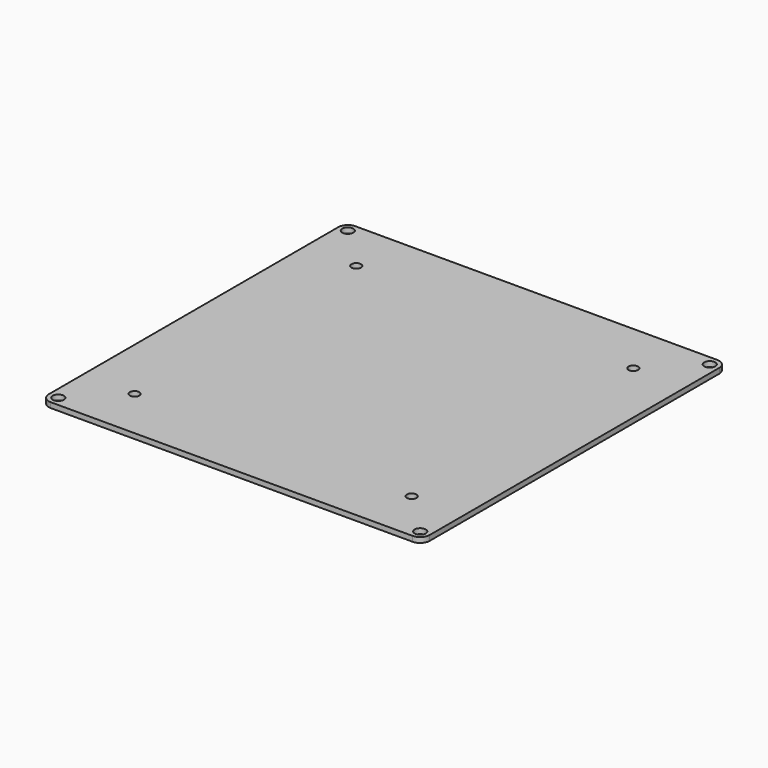
from build123d import *

# Parameters (mm, degrees)
SKETCH_W        = 220
SKETCH_H        = 220
PAD_DEPTH       = 3
SKETCH001_R     = 3.2
POCKET_DEPTH    = 3.001
SKETCH002_R     = 2.75
POCKET001_DEPTH = 5
FILLET_R        = 5.5


with BuildPart() as part:
    # Sketch → Pad (new body)
    with BuildSketch(Plane.XY):
        Rectangle(SKETCH_W, SKETCH_H)
    extrude(amount=PAD_DEPTH)

    # Sketch001 (on Face6 of Pad) → Pocket (cut, through all)
    with BuildSketch(Plane.XY.offset(3)):
        with Locations((-104.5, 104.5)):
            Circle(SKETCH001_R)
        with Locations((104.5, 104.5)):
            Circle(SKETCH001_R)
        with Locations((104.5, -104.5)):
            Circle(SKETCH001_R)
        with Locations((-104.5, -104.5)):
            Circle(SKETCH001_R)
    extrude(amount=-POCKET_DEPTH, mode=Mode.SUBTRACT)

    # Sketch002 (on Face5 of Pocket) → Pocket001 (cut)
    with BuildSketch(Plane.XY.offset(3)):
        with Locations((-80, 80)):
            Circle(SKETCH002_R)
        with Locations((80, 80)):
            Circle(SKETCH002_R)
        with Locations((-80, -80)):
            Circle(SKETCH002_R)
        with Locations((80, -80)):
            Circle(SKETCH002_R)
    extrude(amount=-POCKET001_DEPTH, mode=Mode.SUBTRACT)

    # Fillet
    fillet_edges = [part.edges().sort_by_distance(p)[0] for p in [
        (-110, -110, 1.5),
        (110, -110, 1.5),
        (110, 110, 1.5),
        (-110, 110, 1.5),
    ]]
    fillet(fillet_edges, radius=FILLET_R)


solid = part.part
